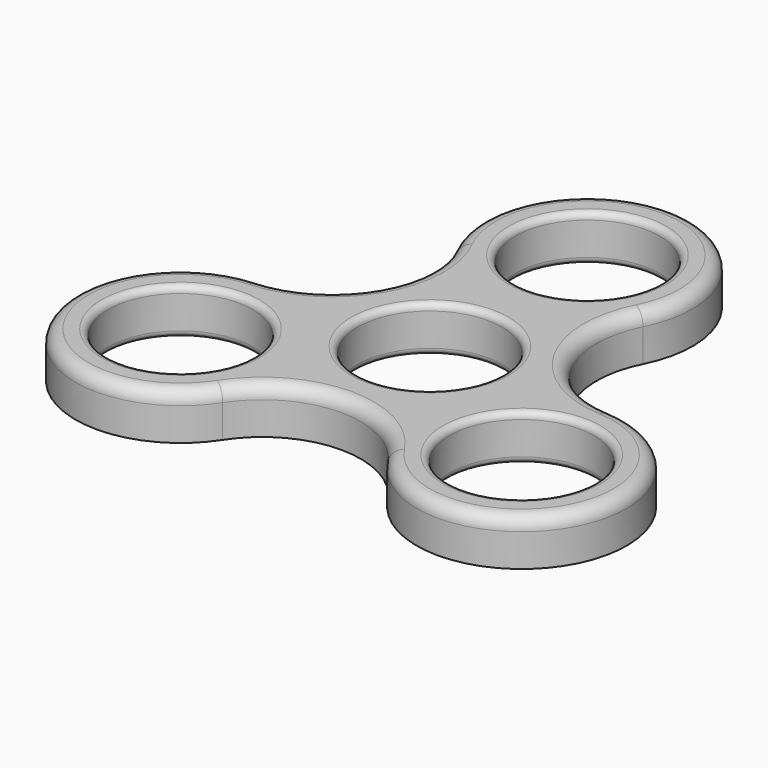
from build123d import *

# Parameters (mm, degrees)
F0_R     = 11
F1_DEPTH = 7
F2_R     = 1
F3_R     = 2


with BuildPart() as f1:
    # F0 (on Top) → F1 (new body)
    with BuildSketch(Plane.XY):
        with BuildLine():
            ThreePointArc((26.835181, 0.97717), (14.645819, 8.455767), (14.263845, 22.751364))
            ThreePointArc((14.263845, 22.751364), (0, 46), (-14.263845, 22.751364))
            ThreePointArc((-14.263845, 22.751364), (-14.645819, 8.455767), (-26.835181, 0.97717))
            ThreePointArc((-26.835181, 0.97717), (-39.837169, -23), (-12.571337, -23.728534))
            ThreePointArc((-12.571337, -23.728534), (0, -16.911535), (12.571337, -23.728534))
            ThreePointArc((12.571337, -23.728534), (39.837169, -23), (26.835181, 0.97717))
        make_face()
        with Locations((-25.980762, -15)):
            Circle(F0_R, mode=Mode.SUBTRACT)
        with Locations((25.980762, -15)):
            Circle(F0_R, mode=Mode.SUBTRACT)
        Circle(F0_R, mode=Mode.SUBTRACT)
        with Locations((0, 30)):
            Circle(F0_R, mode=Mode.SUBTRACT)
    extrude(amount=F1_DEPTH)

    # F2
    f2_edges = [f1.edges().sort_by_distance(p)[0] for p in [
        (-11, 30, 7),
        (-11, 0, 7),
        (14.980762, -15, 7),
        (-36.980762, -15, 7),
        (-36.980762, -15, 0),
        (-11, 0, 0),
        (14.980762, -15, 0),
        (-11, 30, 0),
    ]]
    fillet(f2_edges, radius=F2_R)

    # F3
    f3_edges = [f1.edges().sort_by_distance(p)[0] for p in [
        (-14.645819, 8.455767, 7),
    ]]
    fillet(f3_edges, radius=F3_R)


solid = f1.part
